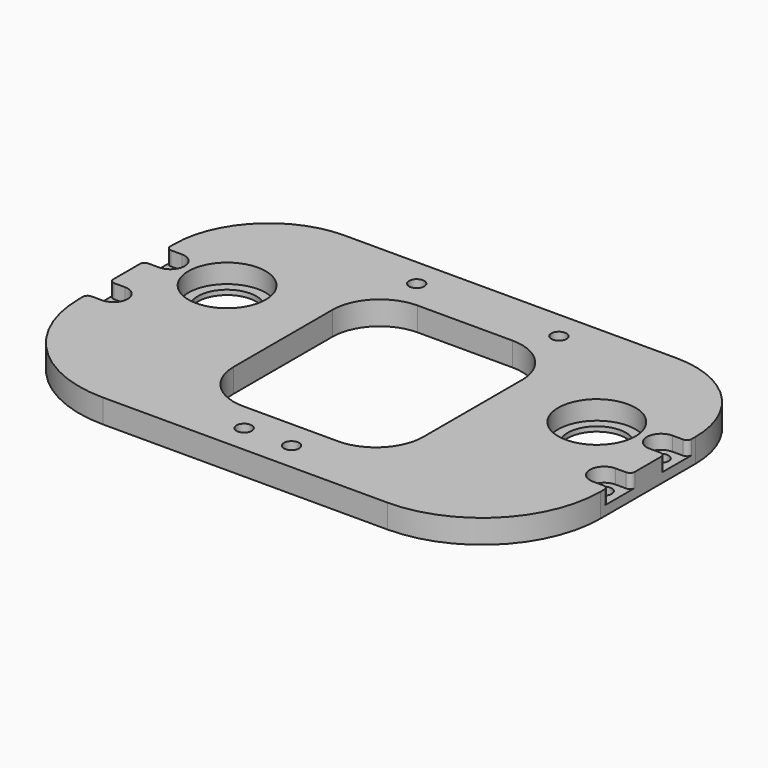
from build123d import *

# Parameters (mm, degrees)
PAD_DEPTH       = 5
POCKET_DEPTH    = 5
SKETCH002_R     = 1.6
POCKET001_DEPTH = 5
POCKET002_DEPTH = 3
FILLET_R        = 1
SKETCH004_R     = 2.85
POCKET003_DEPTH = 2
CHAMFER_SIZE    = 1.2
SKETCH005_R     = 8.15
POCKET004_DEPTH = 4
SKETCH006_R     = 6.15
POCKET005_DEPTH = 1


with BuildPart() as part:
    # Sketch → Pad (new body)
    with BuildSketch(Plane.XY):
        with BuildLine():
            Line((-35, 70), (35, 70))
            ThreePointArc((55, 50), (49.142136, 64.142136), (35, 70))
            Line((55, 50), (55, 25))
            ThreePointArc((30, 0), (47.67767, 7.32233), (55, 25))
            Line((30, 0), (-30, 0))
            ThreePointArc((-55, 25), (-47.67767, 7.32233), (-30, 0))
            Line((-55, 25), (-55, 50))
            ThreePointArc((-35, 70), (-49.142136, 64.142136), (-55, 50))
        make_face()
    extrude(amount=PAD_DEPTH)

    # Sketch001 (on Face10 of Pad) → Pocket (cut)
    with BuildSketch(Plane.XY.offset(5)):
        with BuildLine():
            Line((-10, 58), (10, 58))
            ThreePointArc((20, 48), (17.071068, 55.071068), (10, 58))
            Line((20, 48), (20, 22))
            ThreePointArc((10, 12), (17.071068, 14.928932), (20, 22))
            Line((10, 12), (-10, 12))
            ThreePointArc((-20, 22), (-17.071068, 14.928932), (-10, 12))
            Line((-20, 22), (-20, 48))
            ThreePointArc((-10, 58), (-17.071068, 55.071068), (-20, 48))
        make_face()
    extrude(amount=-POCKET_DEPTH, mode=Mode.SUBTRACT)

    # Sketch002 (on Face5 of Pocket) → Pocket001 (cut)
    with BuildSketch(Plane.XY.offset(5)):
        with Locations((-51.75, 45)):
            Circle(SKETCH002_R)
        with Locations((-51.75, 30)):
            Circle(SKETCH002_R)
        with Locations((-5, 6)):
            Circle(SKETCH002_R)
        with Locations((5, 6)):
            Circle(SKETCH002_R)
        with Locations((15, 64)):
            Circle(SKETCH002_R)
        with Locations((-15, 64)):
            Circle(SKETCH002_R)
        with Locations((51.75, 45)):
            Circle(SKETCH002_R)
        with Locations((51.75, 30)):
            Circle(SKETCH002_R)
    extrude(amount=-POCKET001_DEPTH, mode=Mode.SUBTRACT)

    # Sketch003 (on Face5 of Pocket001) → Pocket002 (cut)
    with BuildSketch(Plane.XY.offset(5)):
        with BuildLine():
            ThreePointArc((51.75, 48), (48.75, 45), (51.75, 42))
            Line((51.75, 42), (61.75, 42))
            ThreePointArc((61.75, 42), (64.75, 45), (61.75, 48))
            Line((51.75, 48), (61.75, 48))
        make_face()
        with BuildLine():
            ThreePointArc((51.75, 33), (48.75, 30), (51.75, 27))
            Line((51.75, 27), (61.75, 27))
            ThreePointArc((61.75, 27), (64.75, 30), (61.75, 33))
            Line((51.75, 33), (61.75, 33))
        make_face()
        with BuildLine():
            ThreePointArc((-51.75, 42), (-48.75, 45), (-51.75, 48))
            Line((-51.75, 48), (-61.75, 48))
            ThreePointArc((-61.75, 48), (-64.75, 45), (-61.75, 42))
            Line((-51.75, 42), (-61.75, 42))
        make_face()
        with BuildLine():
            ThreePointArc((-51.75, 27), (-48.75, 30), (-51.75, 33))
            Line((-51.75, 33), (-61.75, 33))
            ThreePointArc((-61.75, 33), (-64.75, 30), (-61.75, 27))
            Line((-51.75, 27), (-61.75, 27))
        make_face()
    extrude(amount=-POCKET002_DEPTH, mode=Mode.SUBTRACT)

    # Fillet
    fillet_edges = [part.edges().sort_by_distance(p)[0] for p in [
        (55, 27, 3.5),
        (55, 33, 3.5),
        (55, 42, 3.5),
        (55, 48, 3.5),
        (-55, 48, 3.5),
        (-55, 42, 3.5),
        (-55, 33, 3.5),
        (-55, 27, 3.5),
    ]]
    fillet(fillet_edges, radius=FILLET_R)

    # Sketch004 (on Face6 of Fillet) → Pocket003 (cut)
    with BuildSketch(Plane(origin=(0, 0, 0), x_dir=(1, 0, 0), z_dir=(0, 0, -1))):
        with Locations((-5, -6)):
            Circle(SKETCH004_R)
        with Locations((5, -6)):
            Circle(SKETCH004_R)
        with Locations((-15, -64)):
            Circle(SKETCH004_R)
        with Locations((15, -64)):
            Circle(SKETCH004_R)
    extrude(amount=-POCKET003_DEPTH, mode=Mode.SUBTRACT)

    # Chamfer
    chamfer_edges = [part.edges().sort_by_distance(p)[0] for p in [
        (-6.6, 6, 2),
        (3.4, 6, 2),
        (-16.6, 64, 2),
        (13.4, 64, 2),
    ]]
    chamfer(chamfer_edges, length=CHAMFER_SIZE)

    # Sketch005 (on Face3 of Chamfer) → Pocket004 (cut)
    with BuildSketch(Plane.XY.offset(5)):
        with Locations((-39, 44)):
            Circle(SKETCH005_R)
        with Locations((39, 44)):
            Circle(SKETCH005_R)
    extrude(amount=-POCKET004_DEPTH, mode=Mode.SUBTRACT)

    # Sketch006 (on Face54 of Pocket004) → Pocket005 (cut)
    with BuildSketch(Plane.XY.offset(1)):
        with Locations((-39, 44)):
            Circle(SKETCH006_R)
        with Locations((39, 44)):
            Circle(SKETCH006_R)
    extrude(amount=-POCKET005_DEPTH, mode=Mode.SUBTRACT)


solid = part.part
